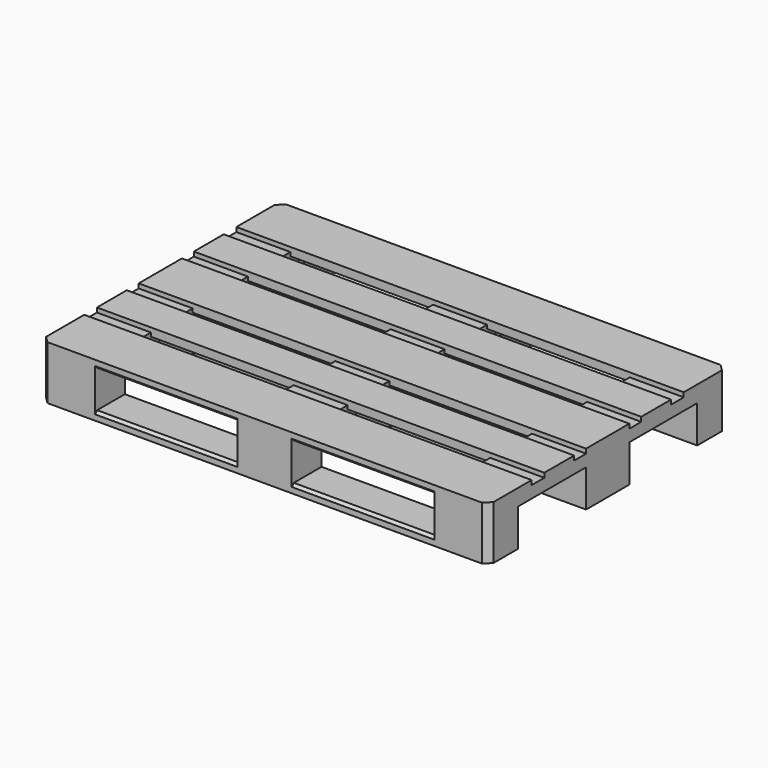
from build123d import *

# Parameters (mm, degrees)
PAD_DEPTH       = 1200
CHAMFER_SIZE    = 17
SKETCH001_W     = 382.5
SKETCH001_H     = 42.5
SKETCH001_H_2   = 40
POCKET_DEPTH    = 144
SKETCH002_W     = 100
SKETCH002_H     = 382.5
POCKET001_DEPTH = 800
CHAMFER001_SIZE = 7
CHAMFER002_SIZE = 7


with BuildPart() as part:
    # Sketch → Pad (new body)
    with BuildSketch(Plane.YZ):
        Polygon((800, 0), (800, 144), (655, 144), (655, 132), (612.5, 132), (612.5, 144), (512.5, 144), (512.5, 132), (472.5, 132), (472.5, 144), (327.5, 144), (327.5, 132), (287.5, 132), (287.5, 144), (187.5, 144), (187.5, 132), (145, 132), (145, 144), (0, 144), (0, 0), (100, 0), (100, 100), (327.5, 100), (327.5, 0), (472.5, 0), (472.5, 100), (700, 100), (700, 0), align=None)
    extrude(amount=PAD_DEPTH)

    # Chamfer
    chamfer_edges = [part.edges().sort_by_distance(p)[0] for p in [
        (1200, 0, 72),
        (0, 0, 72),
        (0, 800, 72),
        (1200, 800, 72),
    ]]
    chamfer(chamfer_edges, length=CHAMFER_SIZE)

    # Sketch001 → Pocket (cut)
    with BuildSketch(Plane.XY):
        with Locations((336.25, 166.25)):
            Rectangle(SKETCH001_W, SKETCH001_H)
        with Locations((863.75, 166.25)):
            Rectangle(SKETCH001_W, SKETCH001_H)
        with Locations((336.25, 307.5)):
            Rectangle(SKETCH001_W, SKETCH001_H_2)
        with Locations((863.75, 307.5)):
            Rectangle(SKETCH001_W, SKETCH001_H_2)
        with Locations((336.25, 492.5)):
            Rectangle(SKETCH001_W, SKETCH001_H_2)
        with Locations((863.75, 492.5)):
            Rectangle(SKETCH001_W, SKETCH001_H_2)
        with Locations((336.25, 633.75)):
            Rectangle(SKETCH001_W, SKETCH001_H)
        with Locations((863.75, 633.75)):
            Rectangle(SKETCH001_W, SKETCH001_H)
    extrude(amount=POCKET_DEPTH, mode=Mode.SUBTRACT)

    # Sketch002 (on Face2 of Pocket) → Pocket001 (cut)
    with BuildSketch(Plane.ZX.offset(800)):
        with Locations((72, 863.75)):
            Rectangle(SKETCH002_W, SKETCH002_H)
        with Locations((72, 336.25)):
            Rectangle(SKETCH002_W, SKETCH002_H)
    extrude(amount=-POCKET001_DEPTH, mode=Mode.SUBTRACT)

    # Chamfer001
    chamfer001_edges = [part.edges().sort_by_distance(p)[0] for p in [
        (863.75, 0, 22),
        (336.25, 0, 22),
        (863.75, 0, 122),
        (336.25, 0, 122),
    ]]
    chamfer(chamfer001_edges, length=CHAMFER001_SIZE)

    # Chamfer002
    chamfer002_edges = [part.edges().sort_by_distance(p)[0] for p in [
        (863.75, 800, 22),
        (863.75, 800, 122),
        (336.25, 800, 122),
        (336.25, 800, 22),
    ]]
    chamfer(chamfer002_edges, length=CHAMFER002_SIZE)


solid = part.part
